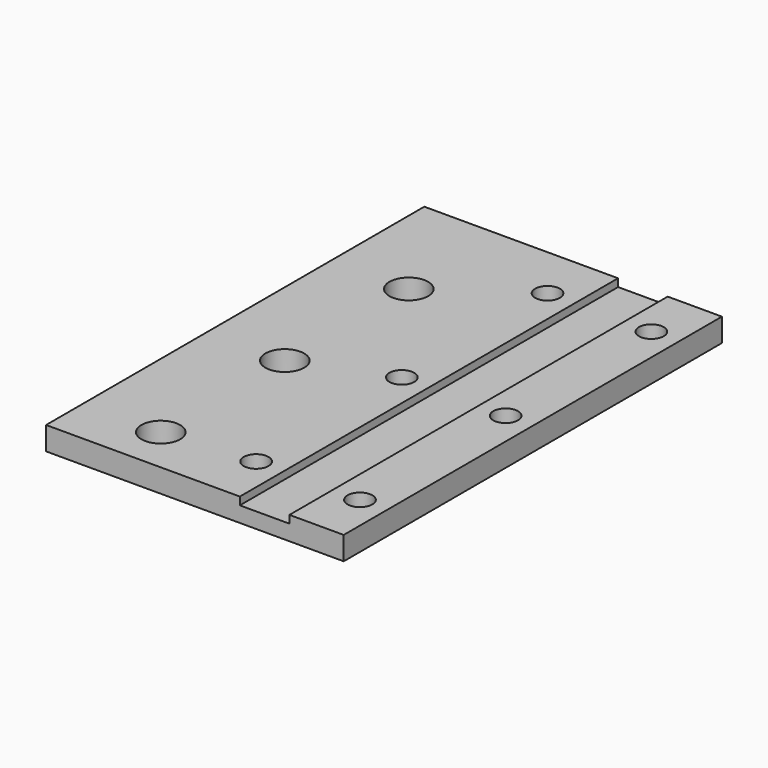
from build123d import *

# Parameters (mm, degrees)
SKETCH_R     = 2.5
SKETCH_R_2   = 1.6
PAD_DEPTH    = 3
SKETCH001_W  = 6.4
SKETCH001_H  = 103.817123
POCKET_DEPTH = 1


with BuildPart() as part:
    # Sketch → Pad (new body)
    with BuildSketch(Plane.XY):
        Polygon((0, 0), (38.400002, 0), (38.4, 61), (0, 61), align=None)
        with Locations((10, 46)):
            Circle(SKETCH_R, mode=Mode.SUBTRACT)
        with Locations((10, 26)):
            Circle(SKETCH_R, mode=Mode.SUBTRACT)
        with Locations((10, 6)):
            Circle(SKETCH_R, mode=Mode.SUBTRACT)
        with Locations((21.5, 54)):
            Circle(SKETCH_R_2, mode=Mode.SUBTRACT)
        with Locations((21.5, 7)):
            Circle(SKETCH_R_2, mode=Mode.SUBTRACT)
        with Locations((34.900002, 7)):
            Circle(SKETCH_R_2, mode=Mode.SUBTRACT)
        with Locations((34.900002, 54)):
            Circle(SKETCH_R_2, mode=Mode.SUBTRACT)
        with Locations((34.900002, 30.5)):
            Circle(SKETCH_R_2, mode=Mode.SUBTRACT)
        with Locations((21.5, 30.5)):
            Circle(SKETCH_R_2, mode=Mode.SUBTRACT)
    extrude(amount=PAD_DEPTH)

    # Sketch001 (on Face15 of Pad) → Pocket (cut)
    with BuildSketch(Plane.XY.offset(3)):
        with Locations((28.2, 19.77481)):
            Rectangle(SKETCH001_W, SKETCH001_H)
    extrude(amount=-POCKET_DEPTH, mode=Mode.SUBTRACT)


solid = part.part
